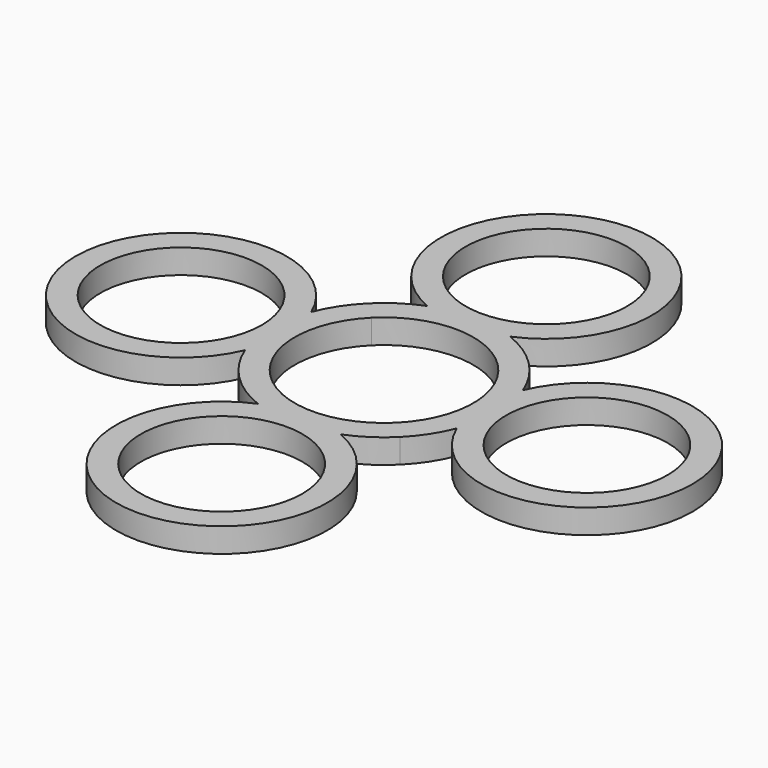
from build123d import *

# Parameters (mm, degrees)
F0_R     = 9.95
F1_DEPTH = 3


with BuildPart() as f1:
    # F0 (on Top) → F1 (new body)
    with BuildSketch(Plane.XY):
        with BuildLine():
            ThreePointArc((5.094939, 13.04), (0, 38), (-5.094939, 13.04))
            ThreePointArc((-5.094939, 13.04), (-7.659892, 11.71862), (-9.899495, 9.899495))
            ThreePointArc((-9.899495, 9.899495), (-11.71862, 7.659892), (-13.04, 5.094939))
            ThreePointArc((-13.04, 5.094939), (-38, 0), (-13.04, -5.094939))
            ThreePointArc((-13.04, -5.094939), (-11.71862, -7.659892), (-9.899495, -9.899495))
            ThreePointArc((-9.899495, -9.899495), (-7.659892, -11.71862), (-5.094939, -13.04))
            ThreePointArc((-5.094939, -13.04), (0, -38), (5.094939, -13.04))
            ThreePointArc((5.094939, -13.04), (7.659892, -11.71862), (9.899495, -9.899495))
            ThreePointArc((9.899495, -9.899495), (11.71862, -7.659892), (13.04, -5.094939))
            ThreePointArc((13.04, -5.094939), (38, 0), (13.04, 5.094939))
            ThreePointArc((13.04, 5.094939), (11.71862, 7.659892), (9.899495, 9.899495))
            ThreePointArc((9.899495, 9.899495), (7.659892, 11.71862), (5.094939, 13.04))
        make_face()
        with Locations((0, -25)):
            Circle(F0_R, mode=Mode.SUBTRACT)
        with Locations((-25, 0)):
            Circle(F0_R, mode=Mode.SUBTRACT)
        with BuildLine():
            ThreePointArc((-7.778175, 7.778175), (0, 11), (7.778175, 7.778175))
            ThreePointArc((7.778175, 7.778175), (11, 0), (7.778175, -7.778175))
            ThreePointArc((7.778175, -7.778175), (0, -11), (-7.778175, -7.778175))
            ThreePointArc((-7.778175, -7.778175), (-11, 0), (-7.778175, 7.778175))
        make_face(mode=Mode.SUBTRACT)
        with Locations((25, 0)):
            Circle(F0_R, mode=Mode.SUBTRACT)
        with Locations((0, 25)):
            Circle(F0_R, mode=Mode.SUBTRACT)
    extrude(amount=F1_DEPTH)


solid = f1.part
